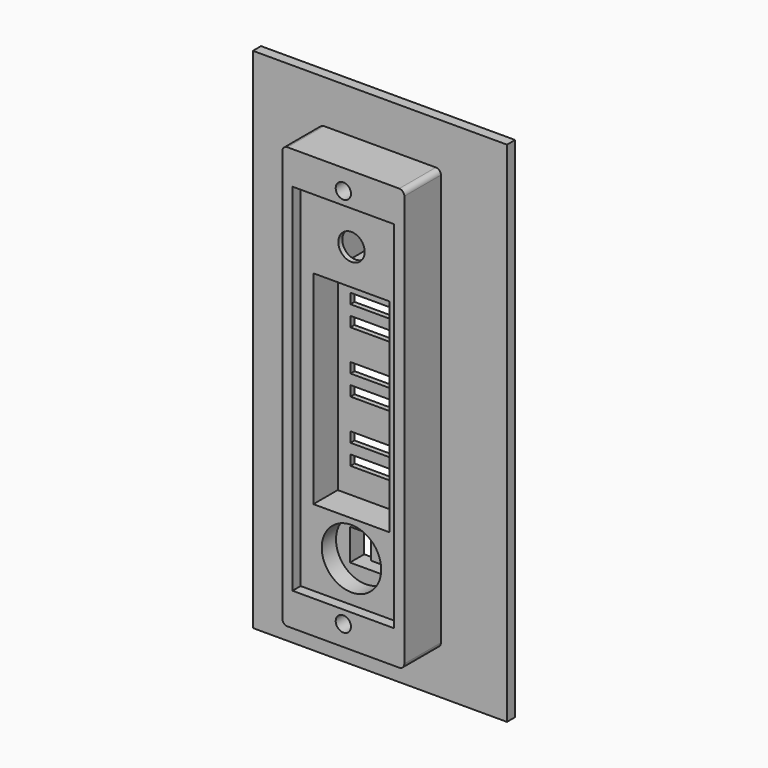
from build123d import *

# Parameters (mm, degrees)
F0_W      = 50
F0_H      = 100
F0_R      = 1.5
F0_W_2    = 20
F0_H_2    = 70
F1_DEPTH  = 2
F2_W      = 24
F2_H      = 83
F2_R      = 1.5
F3_DEPTH  = 9
F4_W      = 20
F4_H      = 70
F5_DEPTH  = 14
F7_W      = 20
F7_H      = 70
F8_DEPTH  = 7
F9_R      = 2.6
F10_DEPTH = 5
F11_W     = 6
F11_H     = 9
F12_DEPTH = 6
F13_W     = 10
F13_H     = 2
F14_DEPTH = 10
F15_W     = 15
F15_H     = 40
F16_DEPTH = 6
F17_W     = 6.2
F17_H     = 6.2
F18_DEPTH = 6
F19_W     = 2.1
F19_H     = 6.2
F20_DEPTH = 1
F21_R     = 5.85
F22_DEPTH = 3.5
F23_R     = 1


with BuildPart() as f1:
    # F0 (on Front) → F1 (new body)
    with BuildSketch(Plane.XZ):
        Rectangle(F0_W, F0_H)
        with Locations((0, -37.5)):
            Circle(F0_R, mode=Mode.SUBTRACT)
        Rectangle(F0_W_2, F0_H_2, mode=Mode.SUBTRACT)
        with Locations((0, 37.5)):
            Circle(F0_R, mode=Mode.SUBTRACT)
    extrude(amount=F1_DEPTH)


with BuildPart() as f3:
    # F2 (on face) → F3 (new body)
    with BuildSketch(Plane.XZ.offset(2)):
        Rectangle(F2_W, F2_H)
        with Locations((0, -37.5)):
            Circle(F2_R, mode=Mode.SUBTRACT)
        with Locations((0, 37.5)):
            Circle(F2_R, mode=Mode.SUBTRACT)
    extrude(amount=F3_DEPTH)

    # F4 (on face) → F5 (cut)
    with BuildSketch(Plane.XZ.offset(11)):
        Rectangle(F4_W, F4_H)
    extrude(amount=-F5_DEPTH, mode=Mode.SUBTRACT)

    # F7 (on offset) → F8 (join)
    with BuildSketch(Plane.XZ.offset(2)):
        Rectangle(F7_W, F7_H)
    extrude(amount=F8_DEPTH)

    # F9 (on face) → F10 (cut)
    with BuildSketch(Plane.XZ.offset(9)):
        with Locations((0, 27)):
            Circle(F9_R)
    extrude(amount=-F10_DEPTH, mode=Mode.SUBTRACT)

    # F11 (on face) → F12 (cut)
    with BuildSketch(Plane(origin=(0, -2, 0), x_dir=(-1, 0, 0), z_dir=(0, 1, 0))):
        with Locations((0, 27)):
            Rectangle(F11_W, F11_H)
    extrude(amount=-F12_DEPTH, mode=Mode.SUBTRACT)

    # F13 (on face) → F14 (cut)
    with BuildSketch(Plane.XZ.offset(9)):
        with Locations((0, 14)):
            Rectangle(F13_W, F13_H)
        with Locations((0, 10)):
            Rectangle(F13_W, F13_H)
        with Locations((0, 2)):
            Rectangle(F13_W, F13_H)
        with Locations((0, -2)):
            Rectangle(F13_W, F13_H)
        with Locations((0, -10)):
            Rectangle(F13_W, F13_H)
        with Locations((0, -14)):
            Rectangle(F13_W, F13_H)
    extrude(amount=-F14_DEPTH, mode=Mode.SUBTRACT)

    # F15 (on face) → F16 (cut)
    with BuildSketch(Plane.XZ.offset(9)):
        Rectangle(F15_W, F15_H)
    extrude(amount=-F16_DEPTH, mode=Mode.SUBTRACT)

    # F17 (on face) → F18 (cut)
    with BuildSketch(Plane.XZ.offset(9)):
        with Locations((0, -27)):
            Rectangle(F17_W, F17_H)
    extrude(amount=-F18_DEPTH, mode=Mode.SUBTRACT)

    # F19 (on face) → F20 (cut)
    with BuildSketch(Plane.XZ.offset(3)):
        with Locations((-2.05, -27)):
            Rectangle(F19_W, F19_H)
        with Locations((2.05, -27)):
            Rectangle(F19_W, F19_H)
    extrude(amount=-F20_DEPTH, mode=Mode.SUBTRACT)

    # F21 (on face) → F22 (cut)
    with BuildSketch(Plane.XZ.offset(9)):
        with Locations((0, -27)):
            Circle(F21_R)
    extrude(amount=-F22_DEPTH, mode=Mode.SUBTRACT)

    # F23
    f23_edges = [f3.edges().sort_by_distance(p)[0] for p in [
        (-12, -6.5, -41.5),
        (12, -6.5, -41.5),
        (-12, -6.5, 41.5),
        (12, -6.5, 41.5),
    ]]
    fillet(f23_edges, radius=F23_R)


solid = Compound([f1.part, f3.part])
